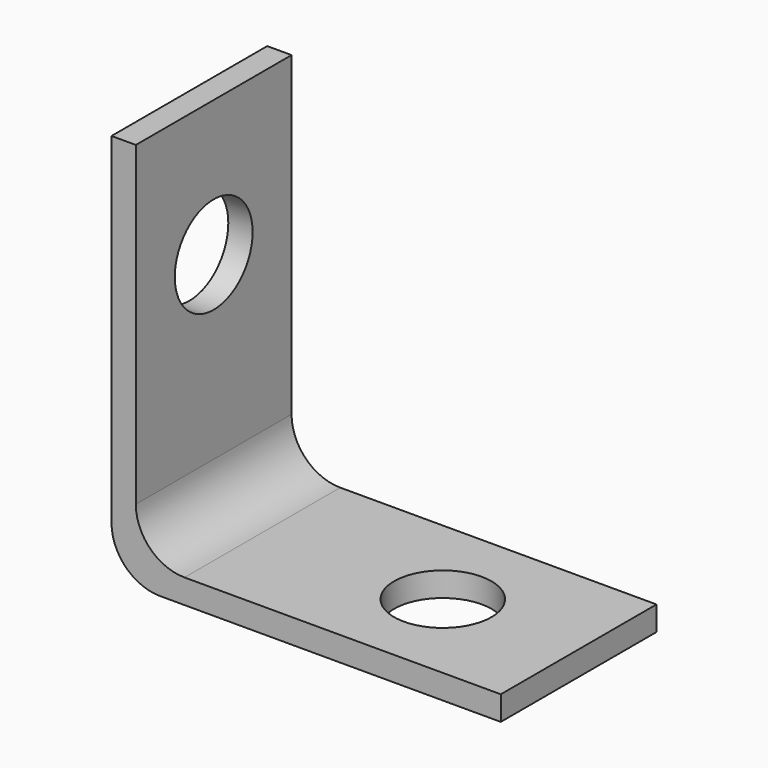
from build123d import *

# Parameters (mm, degrees)
F1_DEPTH = 6.35
F2_R     = 3.175
F3_DEPTH = 1.5885
F4_R     = 3.175
F5_DEPTH = 1.5885


with BuildPart() as f1:
    # F0 (on Front) → F1 (new body, symmetric)
    with BuildSketch(Plane.XZ):
        with BuildLine():
            Line((1.5875, 25.4), (0, 25.4))
            Line((0, 25.4), (0, 3.175))
            ThreePointArc((0, 3.175), (0.929936, 0.929936), (3.175, 0))
            Line((3.175, 0), (25.4, 0))
            Line((25.4, 0), (25.4, 1.5875))
            Line((25.4, 1.5875), (4.7625, 1.5875))
            ThreePointArc((4.7625, 1.5875), (2.517436, 2.517436), (1.5875, 4.7625))
            Line((1.5875, 4.7625), (1.5875, 25.4))
        make_face()
    extrude(amount=F1_DEPTH, both=True)

    # F2 (on face) → F3 (cut, through all)
    with BuildSketch(Plane.YZ.offset(1.5875)):
        with Locations((0, 16.523208)):
            Circle(F2_R)
    extrude(amount=-F3_DEPTH, mode=Mode.SUBTRACT)

    # F4 (on face) → F5 (cut, through all)
    with BuildSketch(Plane.XY.offset(1.5875)):
        with Locations((16.5354, 0)):
            Circle(F4_R)
    extrude(amount=-F5_DEPTH, mode=Mode.SUBTRACT)


solid = f1.part
